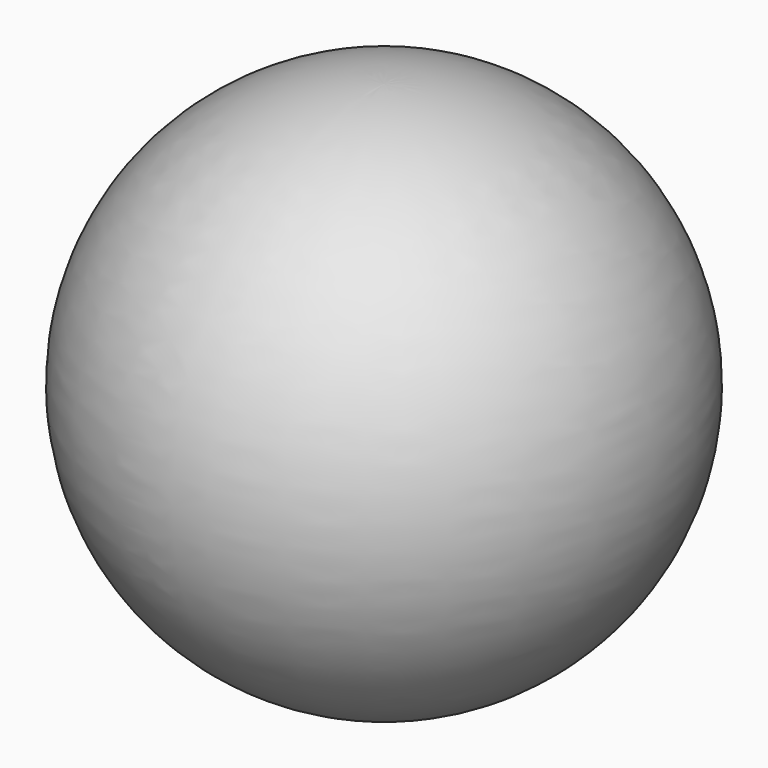
from build123d import *


with BuildPart() as f1:
    # F0 (on Right) → F1 (revolve)
    with BuildSketch(Plane.YZ):
        with BuildLine():
            Line((-42.257108, 87.762051), (-39.082108, 87.762051))
            Line((-39.082108, 87.762051), (-39.082108, 122.547051))
            ThreePointArc((-39.082108, 122.547051), (-73.830789, 89.35121), (-42.257108, 53.122253))
            Line((-42.257108, 53.122253), (-42.257108, 87.762051))
        make_face()
    revolve(axis=Axis((0, -39.082108, 105.154551), (0, 0, 1)))


solid = f1.part
